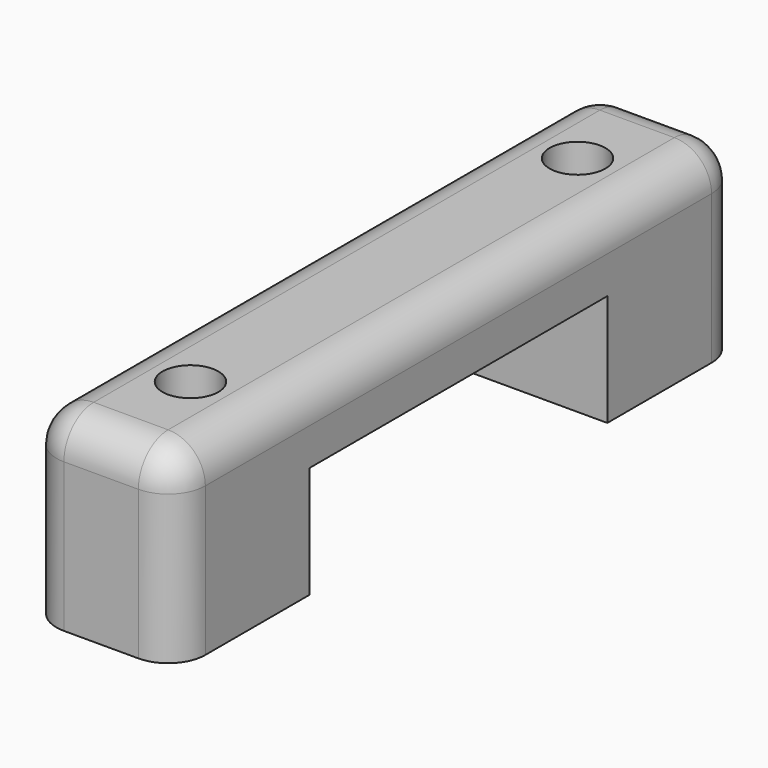
from build123d import *

# Parameters (mm, degrees)
CYLINDER040_R     = 0.75
CYLINDER040_DEPTH = 10
CYLINDER037_R     = 0.75
CYLINDER037_DEPTH = 10
BOX038_W          = 5
BOX038_H          = 10
BOX038_DEPTH      = 3
BOX003_W          = 4
BOX003_H          = 19
BOX003_DEPTH      = 5
FILLET_R          = 1
FILLET001_R       = 1
FILLET002_R       = 1
FILLET003_R       = 1


with BuildPart() as cilindro040:
    # Cylinder040 → Cylinder040 (new body)
    with BuildSketch(Plane(origin=(-26, 66, 42), x_dir=(1, 0, 0), z_dir=(0, 0, 1))):
        Circle(CYLINDER040_R)
    extrude(amount=CYLINDER040_DEPTH)


with BuildPart() as cilindro037:
    # Cylinder037 → Cylinder037 (new body)
    with BuildSketch(Plane(origin=(-26, 53, 42), x_dir=(1, 0, 0), z_dir=(0, 0, 1))):
        Circle(CYLINDER037_R)
    extrude(amount=CYLINDER037_DEPTH)


with BuildPart() as cubo038:
    # Box038 → Box038 (new body)
    with BuildSketch(Plane(origin=(-28.5, 54.5, 51), x_dir=(1, 0, 0), z_dir=(0, 0, 1))):
        with Locations((2.5, 5)):
            Rectangle(BOX038_W, BOX038_H)
    extrude(amount=BOX038_DEPTH)


with BuildPart() as cut058:
    # Box003 → Box003 (new body)
    with BuildSketch(Plane(origin=(-2, 50, 45), x_dir=(1, 0, 0), z_dir=(0, 0, 1))):
        with Locations((2, 9.5)):
            Rectangle(BOX003_W, BOX003_H)
    extrude(amount=BOX003_DEPTH)

    # Fillet
    fillet_edges = [cut058.edges().sort_by_distance(p)[0] for p in [
        (2, 59.5, 50),
    ]]
    fillet(fillet_edges, radius=FILLET_R)

    # Fillet001
    fillet001_edges = [cut058.edges().sort_by_distance(p)[0] for p in [
        (-2, 59.5, 50),
    ]]
    fillet(fillet001_edges, radius=FILLET001_R)

    # Fillet002
    fillet002_edges = [cut058.edges().sort_by_distance(p)[0] for p in [
        (0, 69, 50),
    ]]
    fillet(fillet002_edges, radius=FILLET002_R)

    # Fillet003
    fillet003_edges = [cut058.edges().sort_by_distance(p)[0] for p in [
        (0, 50, 50),
    ]]
    fillet(fillet003_edges, radius=FILLET003_R)


with BuildPart() as cut058_1:
    # Fillet003 placement: moved
    add(cut058.part.moved(Location((-26, 0, 6))))

    # Cut055: cut Cubo038
    add(cubo038.part, mode=Mode.SUBTRACT)


with BuildPart() as cut058_2:
    # Cut055 placement: moved
    add(cut058_1.part.moved(Location((0, 0, -6))))

    # Cut057: cut Cilindro037
    add(cilindro037.part, mode=Mode.SUBTRACT)

    # Cut058: cut Cilindro040
    add(cilindro040.part, mode=Mode.SUBTRACT)


with BuildPart() as cut058_3:
    # Cut058 placement: moved
    add(cut058_2.part.moved(Location((0, 0.5, 0))))


solid = cut058_3.part
